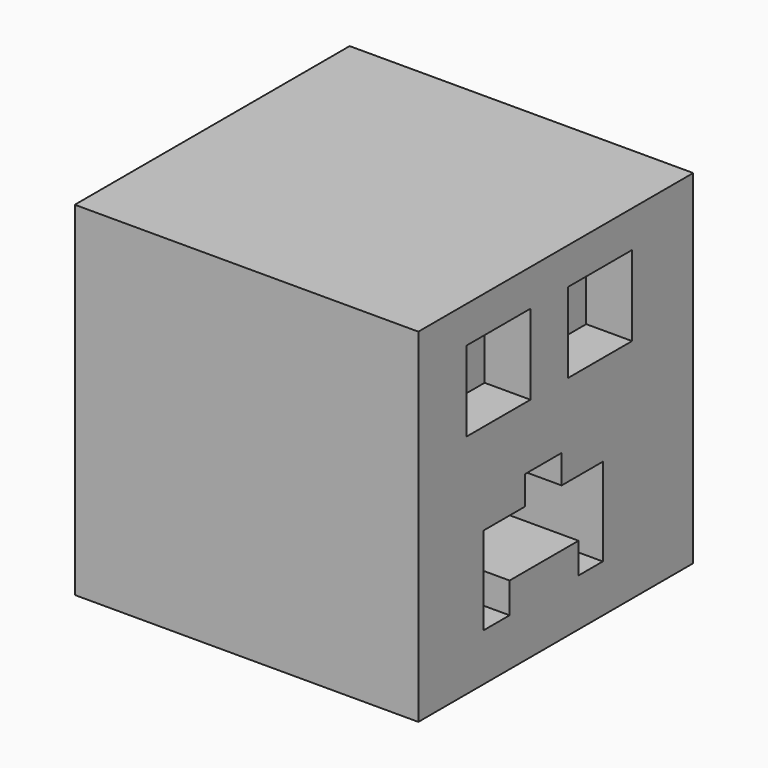
from build123d import *

# Parameters (mm, degrees)
F0_W     = 76.2
F0_H     = 76.2
F1_DEPTH = 76.2
F3_T     = -2.54
F2_W     = 76.2
F2_H     = 76.2
F2_W_2   = 17.78
F2_H_2   = 17.78
F4_DEPTH = 76.2
F5_DEPTH = 63.5


with BuildPart() as f1:
    # F0 (on Top) → F1 (new body)
    with BuildSketch(Plane.XY):
        Rectangle(F0_W, F0_H)
    extrude(amount=F1_DEPTH)

    # F3
    f3_openings = [f1.faces().sort_by_distance(p)[0] for p in [
        (38.1, 0, 38.1),
    ]]
    offset(amount=F3_T, openings=f3_openings)

    # F2 (on face) → F4 (join)
    with BuildSketch(Plane.YZ.offset(38.1)):
        with Locations((0, 38.1)):
            Rectangle(F2_W, F2_H)
        Polygon((-8.5432641208, 30.0269989133), (-8.5432641208, 36.3769989133), (1.6167358792, 36.3769989133), (1.6167358792, 30.0269989133), (13.0484727508, 30.0269989133), (13.0484727508, 23.6769989133), (13.0484727508, 17.3269989133), (13.0484727508, 10.5390315875), (6.3009303994, 10.5390315875), (6.3009303994, 17.3269989133), (-12.8088379279, 17.3269989133), (-12.8088379279, 10.5390315875), (-19.9750009924, 10.5390315875), (-19.9750009924, 17.3269989133), (-19.9750009924, 23.6769989133), (-19.9750009924, 30.0269989133), align=None, mode=Mode.SUBTRACT)
        with Locations((-15.9198542664, 59.1702901899)):
            Rectangle(F2_W_2, F2_H_2, mode=Mode.SUBTRACT)
        with Locations((12.2508332058, 59.1702901899)):
            Rectangle(F2_W_2, F2_H_2, mode=Mode.SUBTRACT)
    extrude(amount=-F4_DEPTH)

    # F5 (add): faces of the model
    f5_faces = [f1.faces().sort_by_distance(p)[0] for p in [
        (-35.56, -15.9198542664, 59.1702901899),
        (-35.56, 12.2508332058, 59.1702901899),
    ]]
    extrude(f5_faces, amount=F5_DEPTH)


solid = f1.part
